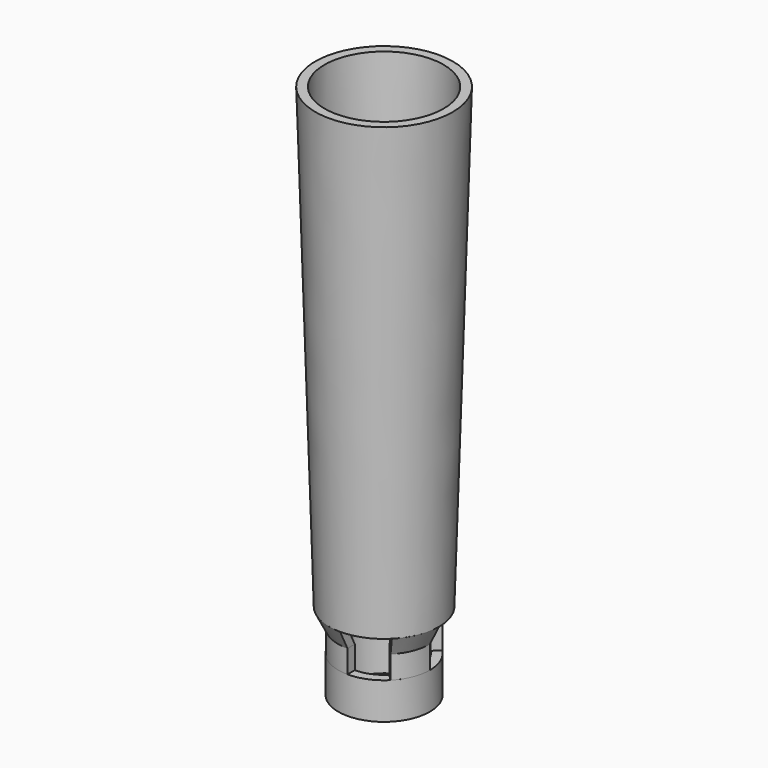
from build123d import *

# Parameters (mm, degrees)
F0_R     = 10
F0_R_2   = 8
F1_DEPTH = 8
F3_DEPTH = 5
F4_COUNT = 4
F4_ANGLE = 270
F8_DEPTH = 4
F9_COUNT = 4
F9_ANGLE = 270


with BuildPart() as f1:
    # F0 (on Top) → F1 (new body)
    with BuildSketch(Plane.XY):
        Circle(F0_R)
        Circle(F0_R_2, mode=Mode.SUBTRACT)
    extrude(amount=F1_DEPTH)


with BuildPart() as f3:
    # F2 (on face) → F3 (new body)
    with BuildSketch(Plane.XY.offset(8)):
        with BuildLine():
            ThreePointArc((7.0710678119, 7.0710678119), (3.8268343237, 9.2387953251), (0, 10))
            Line((0, 10), (0, 8))
            ThreePointArc((0, 8), (3.0614674589, 7.3910362601), (5.6568542495, 5.6568542495))
            Line((5.6568542495, 5.6568542495), (7.0710678119, 7.0710678119))
        make_face()
    extrude(amount=F3_DEPTH)


with BuildPart() as f4_1:
    # F4: instance of F3
    add(f3.part.rotate(Axis((0, 0, 8), (0, 0, 1)), 1 * F4_ANGLE / (F4_COUNT - 1)))


with BuildPart() as f4_2:
    # F4: instance of F3
    add(f3.part.rotate(Axis((0, 0, 8), (0, 0, 1)), 2 * F4_ANGLE / (F4_COUNT - 1)))


with BuildPart() as f4_3:
    # F4: instance of F3
    add(f3.part.rotate(Axis((0, 0, 8), (0, 0, 1)), 3 * F4_ANGLE / (F4_COUNT - 1)))


with BuildPart() as f6:
    # F5 (on face) → F6 (revolve)
    with BuildSketch(Plane(origin=(0, 0, 0), x_dir=(0, -1, 0), z_dir=(-1, 0, 0))):
        Polygon((-12, 17), (-10, 13), (-8, 13), (-10, 17), align=None)
    revolve(axis=Axis((0, 0, 8), (0, 0, 1)))


with BuildPart() as f8:
    # F7 (on face) → F8 (new body, through all)
    with BuildSketch(Plane.XY.offset(13)):
        Polygon((0, 8), (0, 10), (0, 15.0171061978), (-11.2015753984, 11.2015753984), (-7.0710678119, 7.0710678119), (0, 0), align=None)
    extrude(amount=F8_DEPTH)


with BuildPart() as f9_1:
    # F9: instance of F8
    add(f8.part.rotate(Axis((0, 0, 8), (0, 0, 1)), 1 * F9_ANGLE / (F9_COUNT - 1)))


with BuildPart() as f9_2:
    # F9: instance of F8
    add(f8.part.rotate(Axis((0, 0, 8), (0, 0, 1)), 2 * F9_ANGLE / (F9_COUNT - 1)))


with BuildPart() as f9_3:
    # F9: instance of F8
    add(f8.part.rotate(Axis((0, 0, 8), (0, 0, 1)), 3 * F9_ANGLE / (F9_COUNT - 1)))


with BuildPart() as f6_1:
    add(f6.part)

    # F10: cut F8, F9_3, F9_2, F9_1
    add(f8.part, mode=Mode.SUBTRACT)
    add(f9_3.part, mode=Mode.SUBTRACT)
    add(f9_2.part, mode=Mode.SUBTRACT)
    add(f9_1.part, mode=Mode.SUBTRACT)


with BuildPart() as f12:
    # F11 (on face) → F12 (revolve)
    with BuildSketch(Plane(origin=(0, 0, 0), x_dir=(-1, 0, 0), z_dir=(0, 1, 0))):
        Polygon((-15, 116.9549898704), (-12, 17), (-10, 17), (-13, 116.9549898704), align=None)
    revolve(axis=Axis((0, 0, 8), (0, 0, 1)))


solid = Compound([f1.part, f3.part, f4_1.part, f4_2.part, f4_3.part, f6_1.part, f12.part])
